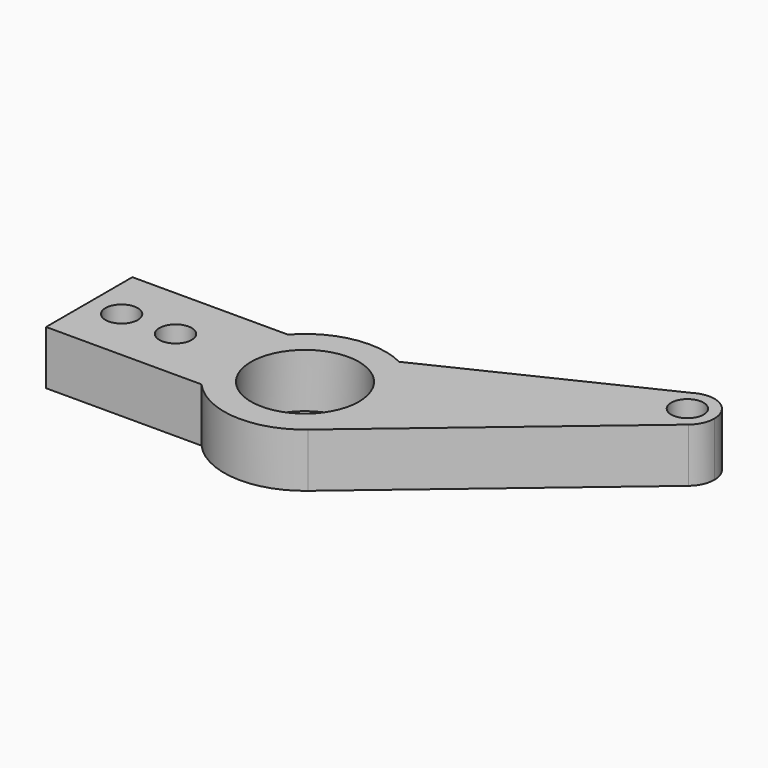
from build123d import *

# Parameters (mm, degrees)
F0_R     = 1.5
F0_R_2   = 5
F1_DEPTH = 5


with BuildPart() as f1:
    # F0 (on Top) → F1 (new body)
    with BuildSketch(Plane.XY):
        with BuildLine():
            Line((-13.601898, 6.696903), (-28.011728, 6.696903))
            Line((-28.011728, 6.696903), (-28.011728, -3.303097))
            Line((-28.011728, -3.303097), (-13.601898, -3.303097))
            ThreePointArc((-13.601898, -3.303097), (-8.528575, -5.785267), (-3.162145, -4.024245))
            Line((-3.162145, -4.024245), (17.848381, 13.785517))
            ThreePointArc((17.848381, 13.785517), (14.224937, 14.213101), (14.887047, 17.801107))
            Line((14.887047, 17.801107), (-4.645039, 8.398799))
            ThreePointArc((-4.645039, 8.398799), (-9.411756, 9.065073), (-13.601898, 6.696903))
        make_face()
        with Locations((-25.011728, 1.696903)):
            Circle(F0_R, mode=Mode.SUBTRACT)
        with Locations((-20.011728, 1.696903)):
            Circle(F0_R, mode=Mode.SUBTRACT)
        with Locations((-8.011728, 1.696903)):
            Circle(F0_R_2, mode=Mode.SUBTRACT)
        with BuildLine():
            ThreePointArc((18.736983, 15.696903), (17.435974, 17.890626), (14.887047, 17.801107))
            ThreePointArc((14.887047, 17.801107), (14.224937, 14.213101), (17.848381, 13.785517))
            ThreePointArc((17.848381, 13.785517), (18.503974, 14.642981), (18.736983, 15.696903))
        make_face()
        with Locations((16.236983, 15.696903)):
            Circle(F0_R, mode=Mode.SUBTRACT)
    extrude(amount=F1_DEPTH)


solid = f1.part
